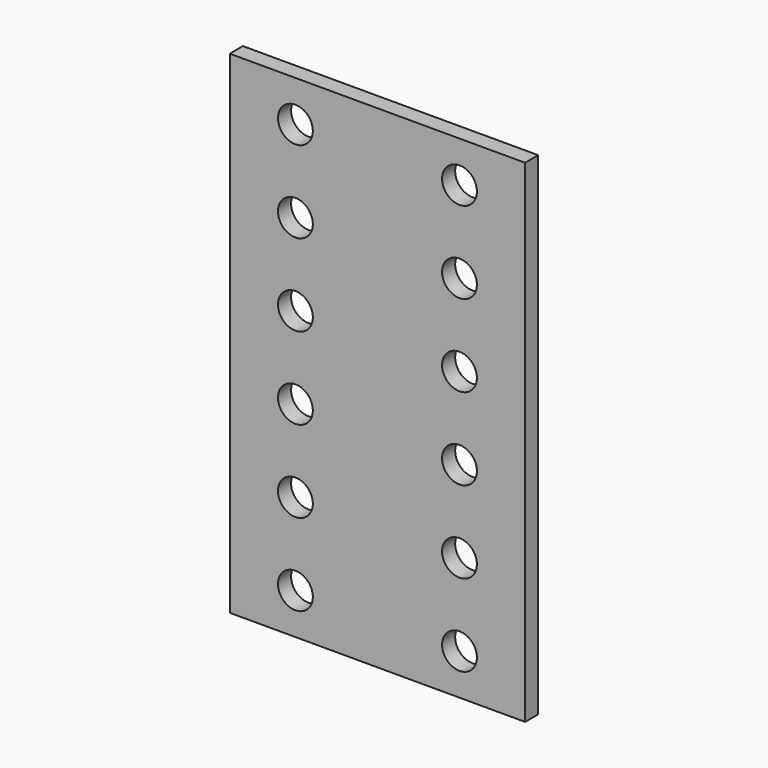
from build123d import *

# Parameters (mm, degrees)
F0_W     = 228.6
F0_H     = 381
F1_DEPTH = 12.7
F2_D     = 26.9875
F2_DEPTH = 25.4
F2_TIP   = 8.107862978


with BuildPart() as f1:
    # F0 (on Front) → F1 (new body)
    with BuildSketch(Plane.XZ):
        with Locations((114.3, 190.5)):
            Rectangle(F0_W, F0_H)
    extrude(amount=F1_DEPTH)

    # F2
    with Locations(Plane(origin=(0, 0, 0), x_dir=(1, 0, 0), z_dir=(0, 1, 0))):
        with Locations((177.8, -349.25), (177.8, -285.75), (177.8, -222.25), (177.8, -158.75), (177.8, -95.25), (177.8, -31.75), (50.8, -31.75), (50.8, -95.25), (50.8, -222.25), (50.8, -285.75), (50.8, -349.25), (50.8, -158.75)):
            Hole(F2_D / 2, depth=F2_DEPTH)
            with Locations((0, 0, -(F2_DEPTH + F2_TIP / 2))):  # 118° drill point
                Cone(0, F2_D / 2, F2_TIP, mode=Mode.SUBTRACT)


solid = f1.part
